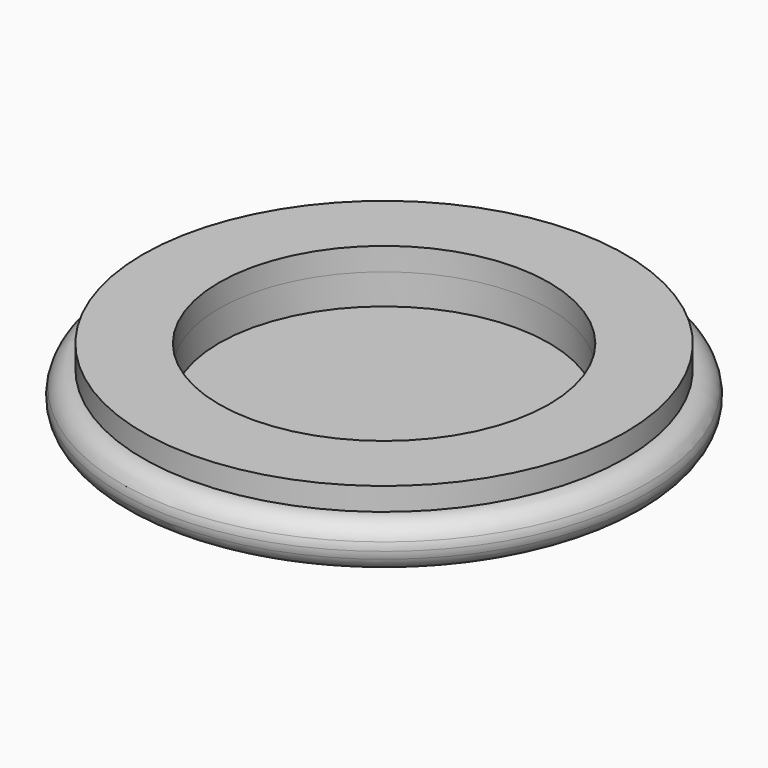
from build123d import *

# Parameters (mm, degrees)
F2_DEPTH = 9


with BuildPart() as f1:
    # F0 (on Front) → F1 (revolve)
    with BuildSketch(Plane.XZ):
        with BuildLine():
            ThreePointArc((95, 18), (89.8038475773, 16.3484692283), (86.5147186258, 12))
            Line((86.5147186258, 12), (103.4852813742, 12))
            ThreePointArc((103.4852813742, 12), (100.1961524227, 16.3484692283), (95, 18))
        make_face()
        with BuildLine():
            Line((65, 12), (86.5147186258, 12))
            ThreePointArc((86.5147186258, 12), (89.8038475773, 16.3484692283), (95, 18))
            Line((95, 18), (65, 18))
            Line((65, 18), (65, 12))
        make_face()
        with BuildLine():
            Line((65, 6), (86.5147186258, 6))
            ThreePointArc((86.5147186258, 6), (86, 9), (86.5147186258, 12))
            Line((86.5147186258, 12), (65, 12))
            Line((65, 12), (65, 6))
        make_face()
        with BuildLine():
            Line((86.5147186258, 6), (103.4852813742, 6))
            ThreePointArc((103.4852813742, 6), (103.8703870369, 7.4780821915), (104, 9))
            ThreePointArc((104, 9), (103.8703870369, 10.5219178085), (103.4852813742, 12))
            Line((103.4852813742, 12), (86.5147186258, 12))
            ThreePointArc((86.5147186258, 12), (86, 9), (86.5147186258, 6))
        make_face()
        with BuildLine():
            ThreePointArc((86.5147186258, 6), (89.8038475773, 1.6515307717), (95, 0))
            ThreePointArc((95, 0), (100.1961524227, 1.6515307717), (103.4852813742, 6))
            Line((103.4852813742, 6), (86.5147186258, 6))
        make_face()
        with BuildLine():
            Line((0, 6), (0, 0))
            Line((0, 0), (95, 0))
            ThreePointArc((95, 0), (89.8038475773, 1.6515307717), (86.5147186258, 6))
            Line((86.5147186258, 6), (65, 6))
            Line((65, 6), (0, 6))
        make_face()
    revolve(axis=Axis((0, 0, 9), (0, 0, -1)))


with BuildPart() as f2:
    # F2 (new): a face of the model
    f2_faces = [f1.part.faces().sort_by_distance(p)[0] for p in [
        (-92.3129942315, 0, 18),
    ]]
    extrude(f2_faces, amount=F2_DEPTH)


solid = Compound([f1.part, f2.part])
